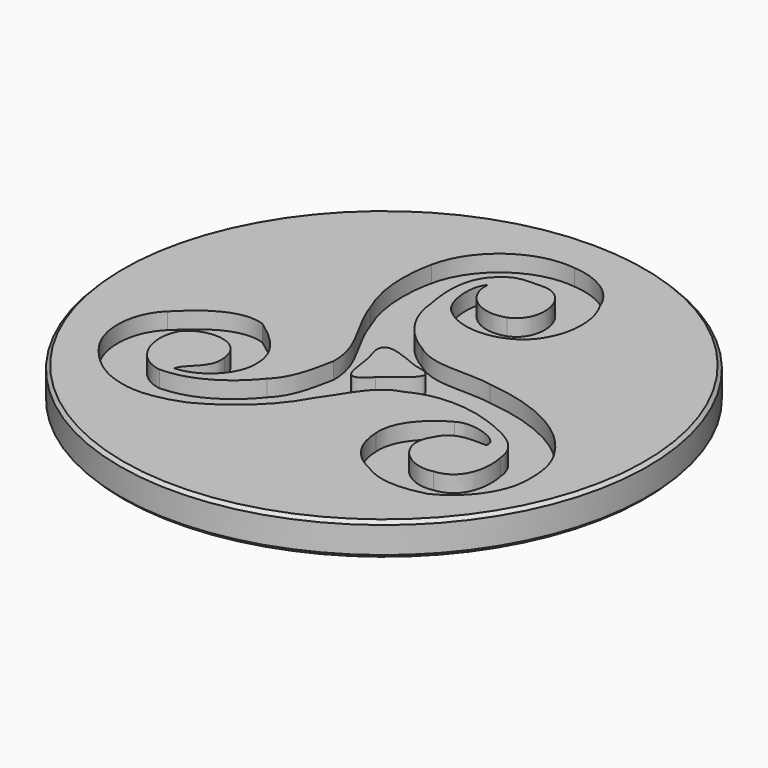
from build123d import *

# Parameters (mm, degrees)
POCKET_DEPTH = 1.25


with BuildPart() as part:
    # Sketch (on DatumPlane) → Revolution (revolve)
    with BuildSketch(Plane.YZ):
        Polygon((0, 0), (0, -2.5), (19.75, -2.5), (20, -2.25), (20, -0.25), (19.75, 0), align=None)
    revolve(axis=Axis((0, 0, 0), (0, 0, 1)))

    # Sketch005 → Pocket (cut)
    with BuildSketch(Plane.XY):
        with BuildLine():
            add(Edge.make_bspline(
                [(-10.613193, -11.526321), (-12.449243, -11.162413), (-13.862224, -9.91866), (-14.8542, -8.377039)],
                knots=[0, 0, 0, 0, 1, 1, 1, 1], degree=3))
            add(Edge.make_bspline(
                [(-14.8542, -8.377039), (-15.897082, -6.624915), (-15.8448, -4.092006), (-14.308682, -2.612985)],
                knots=[0, 0, 0, 0, 1, 1, 1, 1], degree=3))
            add(Edge.make_bspline(
                [(-14.308682, -2.612985), (-12.954862, -1.221329), (-10.995675, 0.366382), (-8.928485, -0.344235)],
                knots=[0, 0, 0, 0, 1, 1, 1, 1], degree=3))
            add(Edge.make_bspline(
                [(-8.928485, -0.344235), (-7.548524, -1.279114), (-6.005527, -2.671458), (-6.01791, -4.473111)],
                knots=[0, 0, 0, 0, 1, 1, 1, 1], degree=3))
            add(Edge.make_bspline(
                [(-6.01791, -4.473111), (-5.914034, -6.321544), (-7.637953, -7.986302), (-9.425849, -8.055094)],
                knots=[0, 0, 0, 0, 1, 1, 1, 1], degree=3))
            add(Edge.make_bspline(
                [(-9.425849, -8.055094), (-9.389389, -7.319711), (-7.594615, -6.666878), (-8.001174, -5.032388)],
                knots=[0, 0, 0, 0, 1, 1, 1, 1], degree=3))
            add(Edge.make_bspline(
                [(-8.001174, -5.032388), (-8.209612, -2.917044), (-11.141513, -2.729243), (-12.207096, -4.213767)],
                knots=[0, 0, 0, 0, 1, 1, 1, 1], degree=3))
            add(Edge.make_bspline(
                [(-12.207096, -4.213767), (-13.077311, -5.946629), (-12.062634, -8.460277), (-10.019521, -8.718245)],
                knots=[0, 0, 0, 0, 1, 1, 1, 1], degree=3))
            add(Edge.make_bspline(
                [(-10.019521, -8.718245), (-7.773473, -8.716182), (-5.696653, -7.366489), (-4.322883, -5.649449)],
                knots=[0, 0, 0, 0, 1, 1, 1, 1], degree=3))
            add(Edge.make_bspline(
                [(-4.322883, -5.649449), (-3.1947, -4.547406), (-2.959432, -2.923923), (-2.652621, -1.448342)],
                knots=[0, 0, 0, 0, 1, 1, 1, 1], degree=3))
            add(Edge.make_bspline(
                [(-2.652621, -1.448342), (-2.604467, 1.053611), (-4.534073, 2.986657), (-5.257762, 5.279483)],
                knots=[0, 0, 0, 0, 1, 1, 1, 1], degree=3))
            add(Edge.make_bspline(
                [(-5.257762, 5.279483), (-6.18301, 7.323972), (-6.332976, 9.661513), (-5.85281, 11.836705)],
                knots=[0, 0, 0, 0, 1, 1, 1, 1], degree=3))
            add(Edge.make_bspline(
                [(-5.85281, 11.836705), (-5.219238, 14.911693), (-2.105039, 17.205895), (1.027733, 16.779387)],
                knots=[0, 0, 0, 0, 1, 1, 1, 1], degree=3))
            add(Edge.make_bspline(
                [(1.027733, 16.779387), (2.809437, 16.661065), (4.590454, 15.669777), (5.22884, 13.935539)],
                knots=[0, 0, 0, 0, 1, 1, 1, 1], degree=3))
            add(Edge.make_bspline(
                [(5.22884, 13.935539), (6.083921, 12.490226), (6.185045, 10.524848), (5.398756, 9.035509)],
                knots=[0, 0, 0, 0, 1, 1, 1, 1], degree=3))
            add(Edge.make_bspline(
                [(5.398756, 9.035509), (4.309096, 6.612666), (0.749127, 6.126997), (-1.146084, 7.848852)],
                knots=[0, 0, 0, 0, 1, 1, 1, 1], degree=3))
            add(Edge.make_bspline(
                [(-1.146084, 7.848852), (-2.186902, 8.648899), (-2.355441, 11.196255), (-1.629001, 11.847712)],
                knots=[0, 0, 0, 0, 1, 1, 1, 1], degree=3))
            add(Edge.make_bspline(
                [(-1.629001, 11.847712), (-1.774152, 9.981394), (0.165086, 8.70806), (1.874559, 9.327873)],
                knots=[0, 0, 0, 0, 1, 1, 1, 1], degree=3))
            add(Edge.make_bspline(
                [(1.874559, 9.327873), (3.897722, 10.123793), (3.29717, 13.759432), (1.072448, 13.755305)],
                knots=[0, 0, 0, 0, 1, 1, 1, 1], degree=3))
            add(Edge.make_bspline(
                [(1.072448, 13.755305), (0.173341, 13.722285), (-0.871605, 13.870187), (-1.571216, 13.188462)],
                knots=[0, 0, 0, 0, 1, 1, 1, 1], degree=3))
            add(Edge.make_bspline(
                [(-1.571216, 13.188462), (-3.233223, 12.063718), (-3.118341, 9.730992), (-2.769567, 7.980932)],
                knots=[0, 0, 0, 0, 1, 1, 1, 1], degree=3))
            add(Edge.make_bspline(
                [(-2.769567, 7.980932), (-2.618913, 5.918558), (-1.363465, 4.114841), (0.414111, 3.107043)],
                knots=[0, 0, 0, 0, 1, 1, 1, 1], degree=3))
            add(Edge.make_bspline(
                [(0.414111, 3.107043), (2.142158, 1.763541), (4.421226, 2.393673), (6.42444, 2.022886)],
                knots=[0, 0, 0, 0, 1, 1, 1, 1], degree=3))
            add(Edge.make_bspline(
                [(6.42444, 2.022886), (9.702363, 1.669297), (13.188725, 0.387708), (14.958046, -2.571022)],
                knots=[0, 0, 0, 0, 1, 1, 1, 1], degree=3))
            add(Edge.make_bspline(
                [(14.958046, -2.571022), (15.879167, -3.908332), (15.943143, -5.767771), (15.711315, -7.179376)],
                knots=[0, 0, 0, 0, 1, 1, 1, 1], degree=3))
            add(Edge.make_bspline(
                [(15.711315, -7.179376), (15.293062, -8.96108), (13.910349, -10.488943), (12.295809, -11.25941)],
                knots=[0, 0, 0, 0, 1, 1, 1, 1], degree=3))
            add(Edge.make_bspline(
                [(12.295809, -11.25941), (10.784456, -11.658401), (9.026141, -11.801488), (7.59321, -10.84666)],
                knots=[0, 0, 0, 0, 1, 1, 1, 1], degree=3))
            add(Edge.make_bspline(
                [(7.59321, -10.84666), (6.360463, -10.31146), (5.127029, -9.159888), (5.055485, -7.085131)],
                knots=[0, 0, 0, 0, 1, 1, 1, 1], degree=3))
            add(Edge.make_bspline(
                [(5.055485, -7.085131), (4.894513, -5.302051), (6.327443, -3.829909), (7.789954, -3.048436)],
                knots=[0, 0, 0, 0, 1, 1, 1, 1], degree=3))
            add(Edge.make_bspline(
                [(7.789954, -3.048436), (8.789497, -2.372214), (11.444168, -3.280264), (11.127726, -4.213767)],
                knots=[0, 0, 0, 0, 1, 1, 1, 1], degree=3))
            add(Edge.make_bspline(
                [(11.127726, -4.213767), (9.994039, -4.193129), (8.607887, -4.069304), (8.057554, -5.329568)],
                knots=[0, 0, 0, 0, 1, 1, 1, 1], degree=3))
            add(Edge.make_bspline(
                [(8.057554, -5.329568), (6.780093, -7.11196), (8.882366, -9.234871), (10.778952, -8.789789)],
                knots=[0, 0, 0, 0, 1, 1, 1, 1], degree=3))
            add(Edge.make_bspline(
                [(10.778952, -8.789789), (12.699616, -8.657709), (13.124748, -6.510721), (12.787669, -4.964284)],
                knots=[0, 0, 0, 0, 1, 1, 1, 1], degree=3))
            add(Edge.make_bspline(
                [(12.787669, -4.964284), (12.654213, -3.091775), (10.855999, -2.381845), (9.317129, -1.790236)],
                knots=[0, 0, 0, 0, 1, 1, 1, 1], degree=3))
            add(Edge.make_bspline(
                [(9.317129, -1.790236), (7.320795, -1.069988), (5.038288, -0.887002), (3.10249, -1.903743)],
                knots=[0, 0, 0, 0, 1, 1, 1, 1], degree=3))
            add(Edge.make_bspline(
                [(3.10249, -1.903743), (1.208655, -2.416928), (0.529681, -4.319018), (-0.537277, -5.737502)],
                knots=[0, 0, 0, 0, 1, 1, 1, 1], degree=3))
            add(Edge.make_bspline(
                [(-0.537277, -5.737502), (-1.750762, -8.018634), (-3.806945, -9.818224), (-6.083262, -10.982867)],
                knots=[0, 0, 0, 0, 1, 1, 1, 1], degree=3))
            add(Edge.make_bspline(
                [(-6.083262, -10.982867), (-7.501058, -11.543519), (-9.103216, -11.909491), (-10.613193, -11.526321)],
                knots=[0, 0, 0, 0, 1, 1, 1, 1], degree=3))
        make_face()
        with BuildLine():
            add(Edge.make_bspline(
                [(0.564077, -1.502687), (1.337296, -0.694385), (4.170825, 0.71378), (1.582882, 1.072873)],
                knots=[0, 0, 0, 0, 1, 1, 1, 1], degree=3))
            add(Edge.make_bspline(
                [(1.582882, 1.072873), (0.330186, 1.492502), (-2.344434, 3.04169), (-1.386854, 0.466818)],
                knots=[0, 0, 0, 0, 1, 1, 1, 1], degree=3))
            add(Edge.make_bspline(
                [(-1.386854, 0.466818), (-0.974792, -0.71571), (-1.355898, -3.613903), (0.564077, -1.502687)],
                knots=[0, 0, 0, 0, 1, 1, 1, 1], degree=3))
        make_face(mode=Mode.SUBTRACT)
    extrude(amount=-POCKET_DEPTH, mode=Mode.SUBTRACT)


solid = part.part
